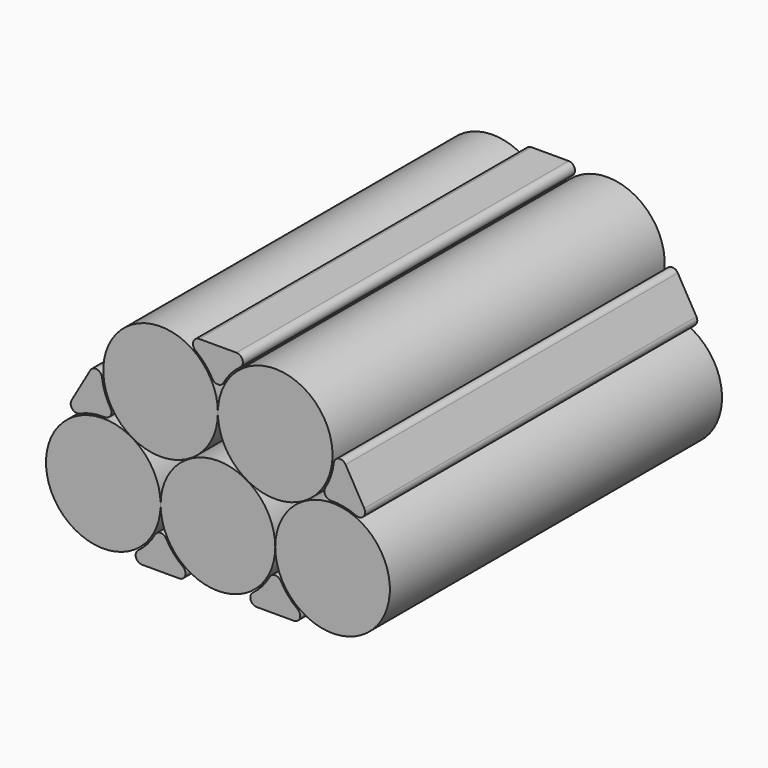
from build123d import *

# Parameters (mm, degrees)
F0_R     = 9
F1_DEPTH = 65.2
F3_DEPTH = 65.2


with BuildPart() as f1:
    # F0 (on Front) → F1 (new body)
    with BuildSketch(Plane.XZ):
        with Locations((-17.999997, 0)):
            Circle(F0_R)
        with BuildLine():
            ThreePointArc((27.000003, 0), (18.000003, 9), (9.000003, 0))
            ThreePointArc((9.000003, 0), (18.000003, -9), (27.000003, 0))
        make_face()
        with BuildLine():
            ThreePointArc((9.000003, 0), (3e-06, 9), (-8.999997, 0))
            ThreePointArc((-8.999997, 0), (3e-06, -9), (9.000003, 0))
        make_face()
        with Locations((-9.002527, 15.632927)):
            Circle(F0_R)
        with BuildLine():
            ThreePointArc((17.997473, 15.632927), (8.997473, 24.632927), (-0.002527, 15.632927))
            ThreePointArc((-0.002527, 15.632927), (8.997473, 6.632927), (17.997473, 15.632927))
        make_face()
    extrude(amount=F1_DEPTH)


with BuildPart() as f3:
    # F2 (on Front) → F3 (new body)
    with BuildSketch(Plane.XZ):
        with BuildLine():
            ThreePointArc((21.712425, 8.472334), (22.858511, 8.720911), (22.980348, 9.887299))
            Line((22.980348, 9.887299), (20.048871, 14.97782))
            ThreePointArc((20.048871, 14.97782), (18.978895, 15.45788), (18.18865, 14.591382))
            ThreePointArc((18.18865, 14.591382), (17.739046, 12.608453), (16.867073, 10.771658))
            ThreePointArc((16.867073, 10.771658), (16.85126, 9.747078), (17.745369, 9.246494))
            ThreePointArc((17.745369, 9.246494), (19.771699, 9.078745), (21.712425, 8.472334))
        make_face()
        with BuildLine():
            ThreePointArc((3.508154, 23.078049), (3.864681, 24.195274), (2.914713, 24.882927))
            Line((2.914713, 24.882927), (-2.919762, 24.882927))
            ThreePointArc((-2.919762, 24.882927), (-3.869729, 24.195274), (-3.513202, 23.078049))
            ThreePointArc((-3.513202, 23.078049), (-2.031564, 21.713076), (-0.880573, 20.05971))
            ThreePointArc((-0.880573, 20.05971), (-0.002524, 19.538281), (0.875525, 20.05971))
            ThreePointArc((0.875525, 20.05971), (2.026516, 21.713076), (3.508154, 23.078049))
        make_face()
        with BuildLine():
            ThreePointArc((-18.193445, 14.589148), (-18.983901, 15.455454), (-20.05376, 14.975134))
            Line((-20.05376, 14.975134), (-22.98274, 9.886089))
            ThreePointArc((-22.98274, 9.886089), (-22.86062, 8.71973), (-21.714473, 8.471431))
            ThreePointArc((-21.714473, 8.471431), (-19.775071, 9.078084), (-17.750002, 9.246621))
            ThreePointArc((-17.750002, 9.246621), (-16.856274, 9.747429), (-16.8722, 10.771785))
            ThreePointArc((-16.8722, 10.771785), (-17.743751, 12.607461), (-18.193445, 14.589148))
        make_face()
        with BuildLine():
            ThreePointArc((-12.510672, -7.445122), (-12.8672, -8.562348), (-11.917232, -9.25))
            Line((-11.917232, -9.25), (-6.08276, -9.25))
            ThreePointArc((-6.08276, -9.25), (-5.132792, -8.562348), (-5.48932, -7.445122))
            ThreePointArc((-5.48932, -7.445122), (-6.970957, -6.08015), (-8.121947, -4.426785))
            ThreePointArc((-8.121947, -4.426785), (-8.999996, -3.905357), (-9.878045, -4.426785))
            ThreePointArc((-9.878045, -4.426785), (-11.029035, -6.08015), (-12.510672, -7.445122))
        make_face()
        with BuildLine():
            ThreePointArc((12.510683, -7.445122), (11.029044, -6.080148), (9.878053, -4.426781))
            ThreePointArc((9.878053, -4.426781), (9.000004, -3.905352), (8.121955, -4.426781))
            ThreePointArc((8.121955, -4.426781), (6.970964, -6.080148), (5.489325, -7.445122))
            ThreePointArc((5.489325, -7.445122), (5.132797, -8.562348), (6.082765, -9.25))
            Line((6.082765, -9.25), (11.917243, -9.25))
            ThreePointArc((11.917243, -9.25), (12.867211, -8.562348), (12.510683, -7.445122))
        make_face()
    extrude(amount=F3_DEPTH)


solid = Compound([f1.part, f3.part])
